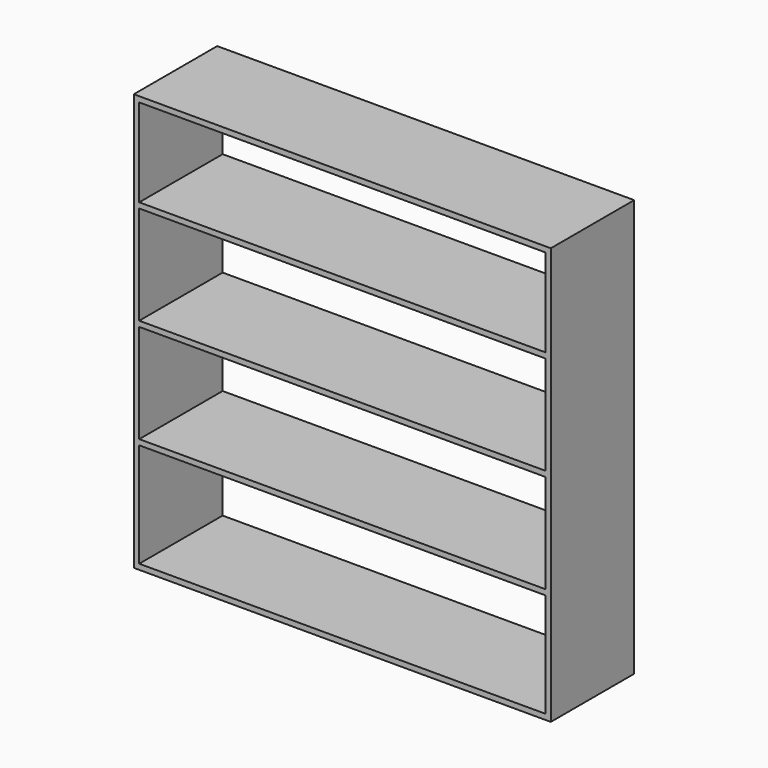
from build123d import *

# Parameters (mm, degrees)
F0_W     = 1219.2
F0_H     = 1219.2
F0_W_2   = 1187.45
F0_H_2   = 15.875
F1_DEPTH = 304.8


with BuildPart() as f1:
    # F0 (on Front) → F1 (new body)
    with BuildSketch(Plane.XZ):
        with Locations((-609.6, 609.6)):
            Rectangle(F0_W, F0_H)
        Polygon((-1203.325, 946.15), (-1203.325, 1203.325), (-15.875, 1203.325), (-15.875, 946.15), (-15.875, 930.275), (-15.875, 641.35), (-15.875, 625.475), (-15.875, 336.55), (-15.875, 320.675), (-15.875, 15.875), (-1203.325, 15.875), (-1203.325, 320.675), (-1203.325, 336.55), (-1203.325, 625.475), (-1203.325, 641.35), (-1203.325, 930.275), align=None, mode=Mode.SUBTRACT)
        with Locations((-609.6, 938.2125)):
            Rectangle(F0_W_2, F0_H_2)
        with Locations((-609.6, 633.4125)):
            Rectangle(F0_W_2, F0_H_2)
        with Locations((-609.6, 328.6125)):
            Rectangle(F0_W_2, F0_H_2)
    extrude(amount=F1_DEPTH)


solid = f1.part
